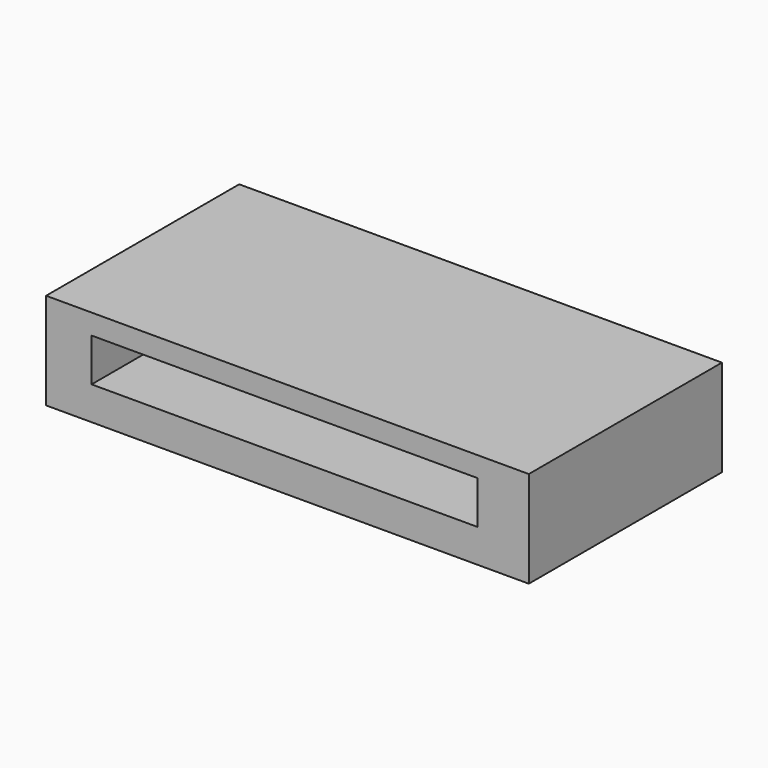
from build123d import *

# Parameters (mm, degrees)
F0_W      = 2000
F0_H      = 425
F0_W_2    = 1598.034471
F0_H_2    = 178.189233
F1_DEPTH  = 1000
F1_FACE_W = 2000
F1_FACE_H = 1000
F2_DEPTH  = 25
F3_R      = 35
F4_DEPTH  = 30
F5_R      = 225
F6_DEPTH  = 122


with BuildPart() as f1:
    # F0 (on Front) → F1 (new body)
    with BuildSketch(Plane.XZ):
        with Locations((-1000, 212.5)):
            Rectangle(F0_W, F0_H)
        with Locations((-1012.46877, 227.07834)):
            Rectangle(F0_W_2, F0_H_2, mode=Mode.SUBTRACT)
    extrude(amount=F1_DEPTH)

    # F1_face (on face) → F2 (cut)
    with BuildSketch(Plane(origin=(-1000, -500, 425), x_dir=(1, 0, 0), z_dir=(0, 0, 1))):
        Rectangle(F1_FACE_W, F1_FACE_H)
    extrude(amount=-F2_DEPTH, mode=Mode.SUBTRACT)

    # F3 (on Top) → F4 (cut)
    with BuildSketch(Plane.XY):
        with Locations((-1415, -85)):
            Circle(F3_R)
        with Locations((-1415, -915)):
            Circle(F3_R)
        with Locations((-585, -915)):
            Circle(F3_R)
        with Locations((-585, -90)):
            Circle(F3_R)
    extrude(amount=F4_DEPTH, mode=Mode.SUBTRACT)

    # F5 (on face) → F6 (cut)
    with BuildSketch(Plane(origin=(0, 0, 0), x_dir=(1, 0, 0), z_dir=(0, 0, -1))):
        with Locations((-1000, 500)):
            Circle(F5_R)
    extrude(amount=-F6_DEPTH, mode=Mode.SUBTRACT)


solid = f1.part
